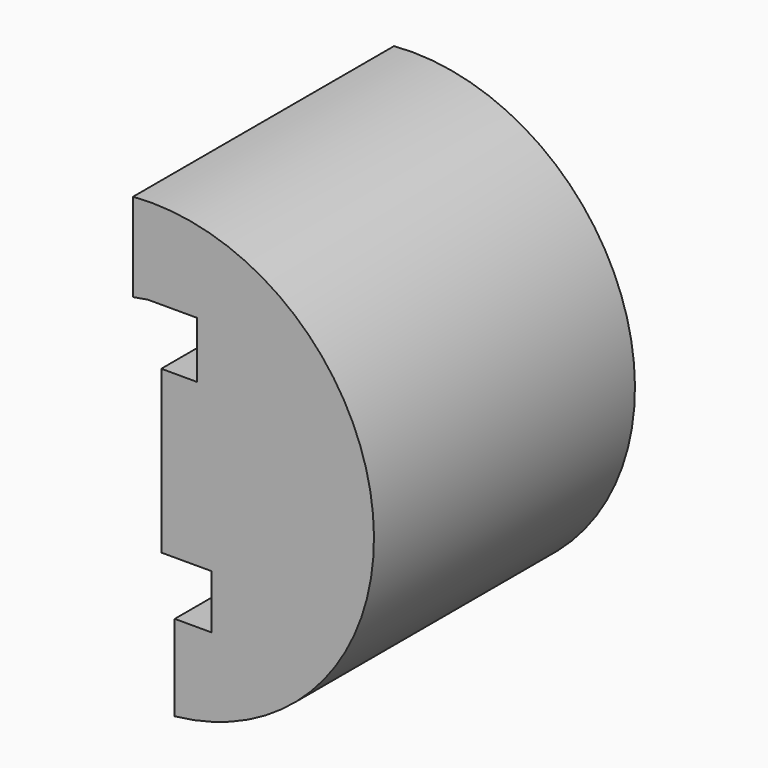
from build123d import *

# Parameters (mm, degrees)
F1_DEPTH = 50.8


with BuildPart() as f1:
    # F0 (on Front) → F1 (new body)
    with BuildSketch(Plane.XZ):
        with BuildLine():
            Line((14.989941, -12.698484), (14.989941, -26.06531))
            ThreePointArc((14.989941, -26.06531), (45.86306, 11.702062), (8.497481, 43.060273))
            Line((8.497481, 43.060273), (10.788937, 29.693447))
            Line((10.788937, 29.693447), (18.427124, 29.693447))
            Line((18.427124, 29.693447), (18.427124, 20.909535))
            Line((18.427124, 20.909535), (12.889439, 20.909535))
            Line((12.889439, 20.909535), (12.889439, -4.29648))
            Line((12.889439, -4.29648), (20.71858, -4.29648))
            Line((20.71858, -4.29648), (20.71858, -12.698484))
            Line((20.71858, -12.698484), (14.989941, -12.698484))
        make_face()
        Polygon((10.788937, 29.693447), (8.497481, 43.060273), (8.497481, 29.300626), align=None)
    extrude(amount=F1_DEPTH)


solid = f1.part
